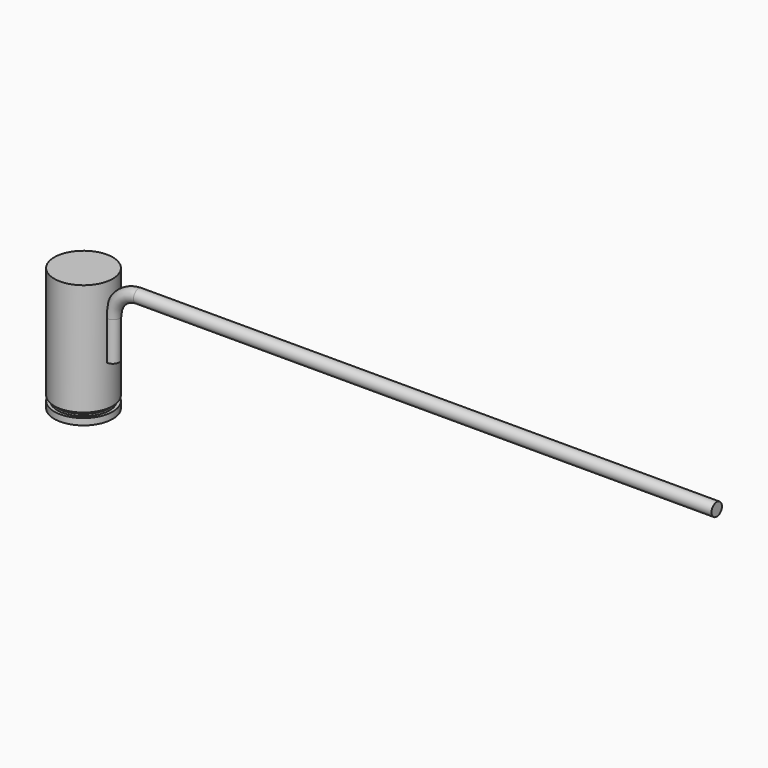
from build123d import *

# Parameters (mm, degrees)
F0_R      = 1
F3_DEPTH  = 6
F2_R      = 1
F4_DEPTH  = 89
F4_FACE_R = 1
F9_DEPTH  = 19


with BuildPart() as f3:
    # F0 (on Top) → F3 (new body)
    with BuildSketch(Plane.XY):
        Circle(F0_R)
    extrude(amount=-F3_DEPTH)


with BuildPart() as f4:
    # F2 (on offset) → F4 (new body)
    with BuildSketch(Plane.YZ.offset(4)):
        with Locations((0, 4)):
            Circle(F2_R)
    extrude(amount=F4_DEPTH)


with BuildPart() as f6:
    # F6: sweep along a path in F5
    with BuildLine(Plane.XZ) as f6_path:
        ThreePointArc((0, 0), (1.16746, 2.849852), (3.998772, 4.061581))
    # F4_face (on face) → F6 (sweep)
    with BuildSketch(Plane(origin=(4, 0, 4), x_dir=(0, 1, 0), z_dir=(-1, 0, 0))):
        Circle(F4_FACE_R)
    sweep(path=f6_path.line)


with BuildPart() as f9:
    # F8 (on offset) → F9 (new body)
    with BuildSketch(Plane.XY.offset(5)):
        with BuildLine():
            ThreePointArc((-9, 0), (-4.5, -4.5), (0, 0))
            Line((0, 0), (-4.5, 0))
            Line((-4.5, 0), (-9, 0))
        make_face()
        with BuildLine():
            Line((-4.5, 0), (0, 0))
            ThreePointArc((0, 0), (-4.5, 4.5), (-9, 0))
            Line((-9, 0), (-4.5, 0))
        make_face()
    extrude(amount=-F9_DEPTH)

    # F10 (on Front) → F12 (revolve, cut)
    with BuildSketch(Plane.XZ):
        Polygon((0, -13.005943), (0, -14.014255), (1.1325, -13.989662), (1.1325, -12.52638), (0, -12.250524), (-0.490637, -12.698313), (-0.490637, -13.005943), align=None)
    revolve(axis=Axis((-4.5, 0, -12.944212), (0, 0, 1)), mode=Mode.SUBTRACT)


solid = Compound([f3.part, f4.part, f6.part, f9.part])
